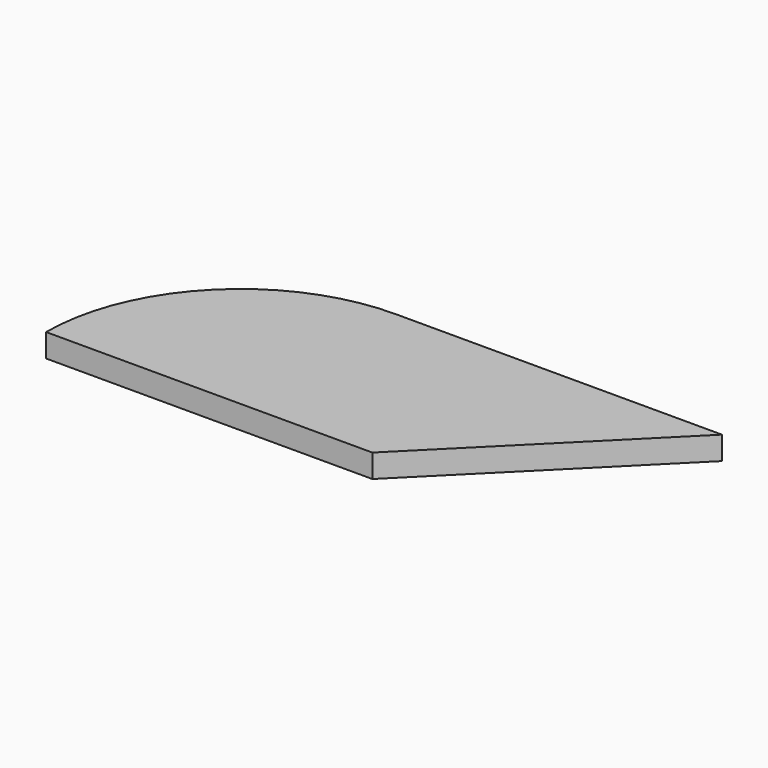
from build123d import *

# Parameters (mm, degrees)
F1_DEPTH = 3
F3_DEPTH = 1.5


with BuildPart() as f1:
    # F0 (on Top) → F1 (new body)
    with BuildSketch(Plane.XY):
        with BuildLine():
            ThreePointArc((25, 25), (7.32233, 17.67767), (0, 0))
            Line((0, 0), (42, 0))
            Line((42, 0), (42, 25))
            Line((42, 25), (25, 25))
        make_face()
        Polygon((42, 25), (42, 0), (67, 25), align=None)
    extrude(amount=F1_DEPTH)

    # F2 (on Top) → F3 (cut)
    with BuildSketch(Plane.XY):
        Polygon((3.003582, 3.290139), (3.191734, 1.5), (38, 5.158496), (37.811849, 6.948636), align=None)
        Polygon((10.781757, 11.068314), (10.969908, 9.278175), (45.778175, 12.936671), (45.590023, 14.72681), align=None)
        Polygon((18.559932, 18.846489), (18.748083, 17.056349), (53.556349, 20.714845), (53.368198, 22.504985), align=None)
    extrude(amount=F3_DEPTH, mode=Mode.SUBTRACT)


solid = f1.part
